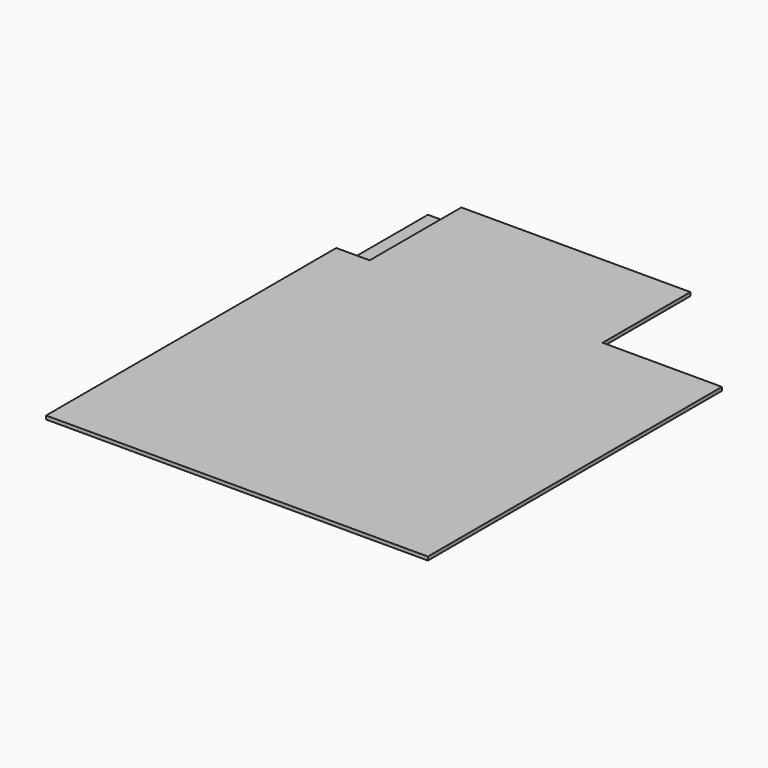
from build123d import *

# Parameters (mm, degrees)
F1_DEPTH = 38.1
F2_W     = 355.6
F2_H     = 1219.2
F3_DEPTH = 38.1
F5_DEPTH = 1219.2


with BuildPart() as f1:
    # F0 (on Top) → F1 (new body)
    with BuildSketch(Plane.XY):
        Polygon((2794, 0), (0, 0), (0, -5080), (4064, -5080), (4064, -1168.4), (2794, -1168.4), align=None)
    extrude(amount=F1_DEPTH)

    # F2 (on face) → F3 (cut)
    with BuildSketch(Plane.XY.offset(38.1)):
        with Locations((177.8, -609.6)):
            Rectangle(F2_W, F2_H)
    extrude(amount=-F3_DEPTH, mode=Mode.SUBTRACT)

    # F4 (on face) → F5 (join)
    with BuildSketch(Plane(origin=(0, 0, 0), x_dir=(-1, 0, 0), z_dir=(0, 1, 0))):
        Polygon((-355.6, -146.05), (-355.6, 0), (-393.7, 0), (-393.7, -184.15), (-38.1, -184.15), (-38.1, -368.3), (0, -368.3), (0, -146.05), (-317.5, -146.05), align=None)
    extrude(amount=-F5_DEPTH)


solid = f1.part
